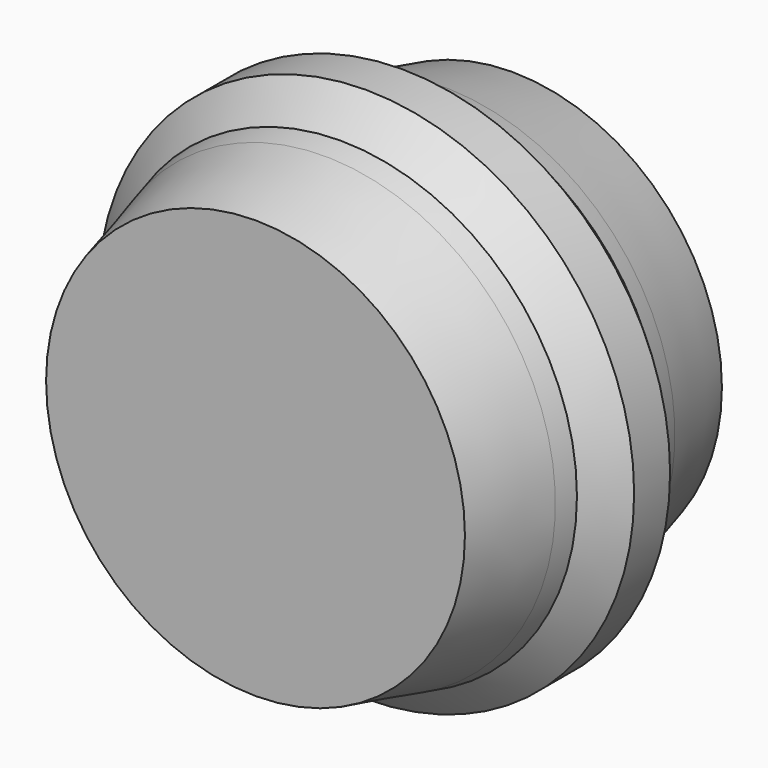
from build123d import *


with BuildPart() as f1:
    # F0 (on Top) → F1 (revolve)
    with BuildSketch(Plane.XY):
        Polygon((0, -22.373166), (0, 0), (-54.182574, 0), (-59.810659, -22.235475), (-61.148187, -27.519786), (0, -27.519786), align=None)
        Polygon((0, -41.5557), (0, -27.519786), (-61.148187, -27.519786), (-69.370231, -35.74183), (-69.370231, -41.5557), align=None)
        Polygon((0, -47.975048), (0, -41.5557), (-69.370231, -41.5557), (-69.370231, -47.369569), (-61.148187, -55.591614), (0, -55.591614), align=None)
        Polygon((0, -83.111399), (0, -55.591614), (-61.148187, -55.591614), (-59.810659, -60.875925), (-54.182574, -83.111399), align=None)
    revolve(axis=Axis((0, -11.186583, 0), (0, -1, 0)))


solid = f1.part
